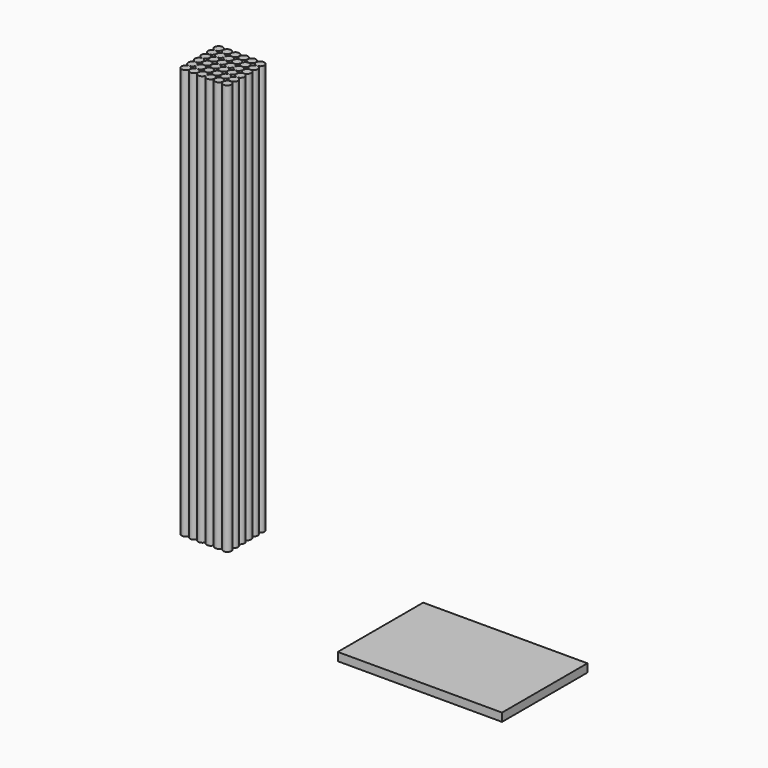
from build123d import *

# Parameters (mm, degrees)
F0_R     = 0.5
F1_DEPTH = 50
F0_W     = 20
F0_H     = 13
F2_DEPTH = 1


with BuildPart() as f1:
    # F0 (on Top) → F1 (new body)
    with BuildSketch(Plane.XY):
        with Locations((-21.148237, 18.820809)):
            Circle(F0_R)
        with Locations((-19.108679, 15.790872)):
            Circle(F0_R)
        with Locations((-19.095641, 13.770914)):
            Circle(F0_R)
        with Locations((-19.128237, 18.820809)):
            Circle(F0_R)
        with Locations((-19.121718, 17.81083)):
            Circle(F0_R)
        with Locations((-20.118679, 15.790872)):
            Circle(F0_R)
        with Locations((-19.10216, 14.780893)):
            Circle(F0_R)
        with Locations((-20.11216, 14.780893)):
            Circle(F0_R)
        with Locations((-20.138237, 18.820809)):
            Circle(F0_R)
        with Locations((-22.158237, 18.820809)):
            Circle(F0_R)
        with Locations((-24.145641, 13.770914)):
            Circle(F0_R)
        with Locations((-21.128679, 15.790872)):
            Circle(F0_R)
        with Locations((-21.115641, 13.770914)):
            Circle(F0_R)
        with Locations((-20.105641, 13.770914)):
            Circle(F0_R)
        with Locations((-23.135641, 13.770914)):
            Circle(F0_R)
        with Locations((-19.115199, 16.800851)):
            Circle(F0_R)
        with Locations((-22.125641, 13.770914)):
            Circle(F0_R)
        with Locations((-21.141718, 17.81083)):
            Circle(F0_R)
        with Locations((-20.131718, 17.81083)):
            Circle(F0_R)
        with Locations((-22.13216, 14.780893)):
            Circle(F0_R)
        with Locations((-20.125199, 16.800851)):
            Circle(F0_R)
        with Locations((-21.135199, 16.800851)):
            Circle(F0_R)
        with Locations((-21.12216, 14.780893)):
            Circle(F0_R)
        with Locations((-23.14216, 14.780893)):
            Circle(F0_R)
        with Locations((-24.165199, 16.800851)):
            Circle(F0_R)
        with Locations((-22.151718, 17.81083)):
            Circle(F0_R)
        with Locations((-24.178237, 18.820809)):
            Circle(F0_R)
        with Locations((-24.15216, 14.780893)):
            Circle(F0_R)
        with Locations((-23.168237, 18.820809)):
            Circle(F0_R)
        with Locations((-24.171718, 17.81083)):
            Circle(F0_R)
        with Locations((-24.158679, 15.790872)):
            Circle(F0_R)
        with Locations((-22.138679, 15.790872)):
            Circle(F0_R)
        with Locations((-22.145199, 16.800851)):
            Circle(F0_R)
        with Locations((-23.155199, 16.800851)):
            Circle(F0_R)
        with Locations((-23.148679, 15.790872)):
            Circle(F0_R)
        with Locations((-23.161718, 17.81083)):
            Circle(F0_R)
    extrude(amount=F1_DEPTH)


with BuildPart() as f2:
    # F0 (on Top) → F2 (new body)
    with BuildSketch(Plane.XY):
        with Locations((13.475797, 8.870321)):
            Rectangle(F0_W, F0_H)
    extrude(amount=F2_DEPTH)


solid = Compound([f1.part, f2.part])
